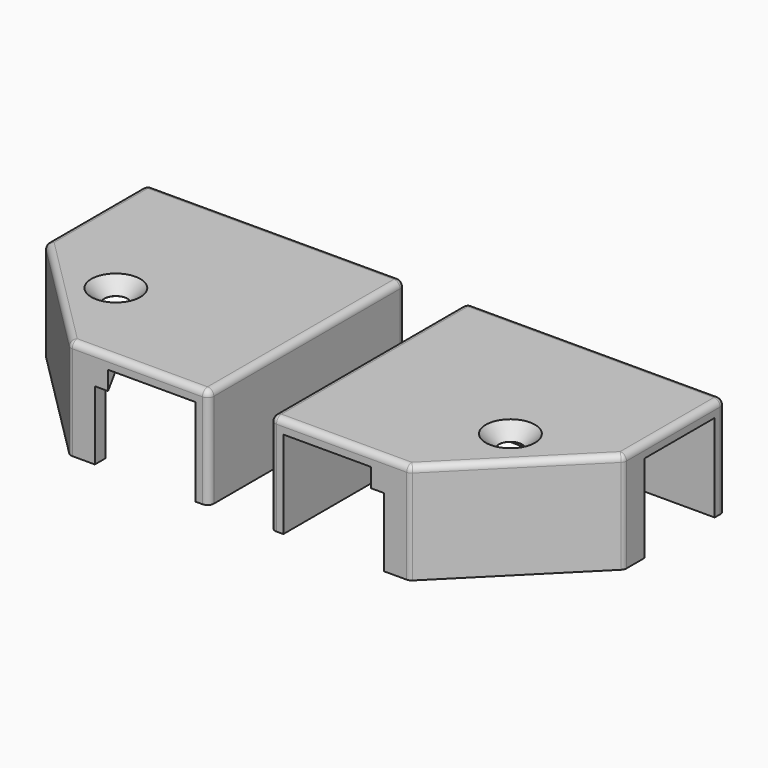
from build123d import *

# Parameters (mm, degrees)
F1_DEPTH       = 3
F2_DEPTH       = 20
F3_R           = 1.4387747146
F5_D           = 5.25
F5_DEPTH       = 6
F5_CSINK_D     = 11.2
F5_CSINK_ANGLE = 90
F5_TIP         = 1.5772591249
F8_DEPTH       = 3


with BuildPart() as f1:
    # F0 (on Top) → F1 (new body)
    with BuildSketch(Plane.XY):
        Polygon((3, 3), (-56, 3), (-56, 0), (0, 0), (0, -53), (3, -53), align=None)
        Polygon((0, 0), (-56, 0), (-56, -20), (-53, -20), (-53, -24.5), (-27.5, -50), (-20, -50), (-20, -53), (0, -53), align=None)
        Polygon((-53, -20), (-56, -20), (-56, -25.7426406871), (-28.7426406871, -53), (-20, -53), (-20, -50), (-27.5, -50), (-53, -24.5), align=None)
    extrude(amount=F1_DEPTH)

    # F0 (on Top) → F2 (join)
    with BuildSketch(Plane.XY):
        Polygon((3, 3), (-56, 3), (-56, 0), (0, 0), (0, -53), (3, -53), align=None)
        Polygon((-53, -20), (-56, -20), (-56, -25.7426406871), (-28.7426406871, -53), (-20, -53), (-20, -50), (-27.5, -50), (-53, -24.5), align=None)
    extrude(amount=-F2_DEPTH)

    # F3
    f3_edges = [f1.edges().sort_by_distance(p)[0] for p in [
        (3, 3, -8.5),
        (3, -25, 3),
        (-26.5, 3, 3),
        (-42.37132, -39.37132, 3),
        (-28.742641, -53, -8.5),
        (-56, -25.742641, -8.5),
        (3, -53, -8.5),
        (-56, 3, -8.5),
        (-56, -11.37132, 3),
        (-12.87132, -53, 3),
    ]]
    fillet(f3_edges, radius=F3_R)

    # F5
    with Locations(Plane.XY.offset(3)):
        with Locations((-35, -32)):
            CounterSinkHole(F5_D / 2, F5_CSINK_D / 2, depth=F5_DEPTH, counter_sink_angle=F5_CSINK_ANGLE)
            with Locations((0, 0, -(F5_DEPTH + F5_TIP / 2))):  # 118° drill point
                Cone(0, F5_D / 2, F5_TIP, mode=Mode.SUBTRACT)

    # F7 (on face) → F8 (cut)
    with BuildSketch(Plane.YZ.offset(-20)):
        Polygon((-50, -20), (-50, 0), (-64, -20), align=None)
    extrude(amount=-F8_DEPTH, mode=Mode.SUBTRACT)


with BuildPart() as f9_1:
    # F9: instance of F1
    add(f1.part.mirror(Plane.YZ.offset(10)))


solid = Compound([f1.part, f9_1.part])
